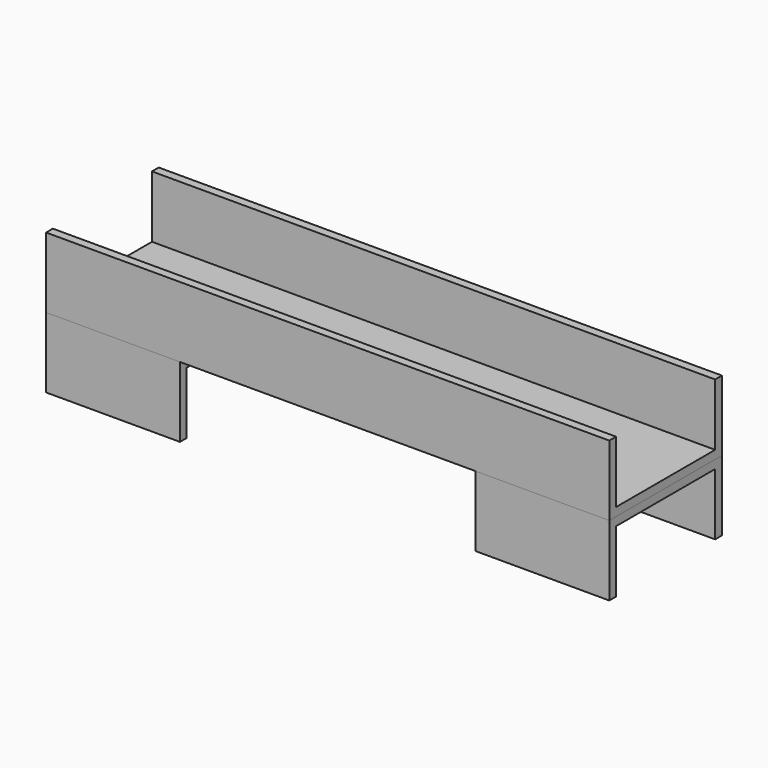
from build123d import *

# Parameters (mm, degrees)
F0_W     = 200
F0_H     = 25
F1_DEPTH = 50
F2_W     = 44
F2_H     = 22
F3_DEPTH = 200.001
F4_W     = 47.55112
F4_H     = 50
F5_DEPTH = 25
F6_W     = 44
F6_H     = 22
F7_DEPTH = 200.001


with BuildPart() as f1:
    # F0 (on Front) → F1 (new body)
    with BuildSketch(Plane.XZ):
        Rectangle(F0_W, F0_H)
    extrude(amount=F1_DEPTH)

    # F2 (on face) → F3 (cut, through all)
    with BuildSketch(Plane.YZ.offset(100)):
        with Locations((-25, 1.5)):
            Rectangle(F2_W, F2_H)
    extrude(amount=-F3_DEPTH, mode=Mode.SUBTRACT)


with BuildPart() as f5:
    # F4 (on face) → F5 (new body)
    with BuildSketch(Plane(origin=(0, 0, -12.5), x_dir=(1, 0, 0), z_dir=(0, 0, -1))):
        with Locations((-76.22444, 25)):
            Rectangle(F4_W, F4_H)
    extrude(amount=F5_DEPTH)

    # F6 (on face) → F7 (cut, through all)
    with BuildSketch(Plane(origin=(-100, 0, 0), x_dir=(0, -1, 0), z_dir=(-1, 0, 0))):
        with Locations((25, -26.5)):
            Rectangle(F6_W, F6_H)
    extrude(amount=-F7_DEPTH, mode=Mode.SUBTRACT)


with BuildPart() as f8_1:
    # F8: instance of F5
    add(f5.part.mirror(Plane.YZ))


solid = Compound([f1.part, f5.part, f8_1.part])
